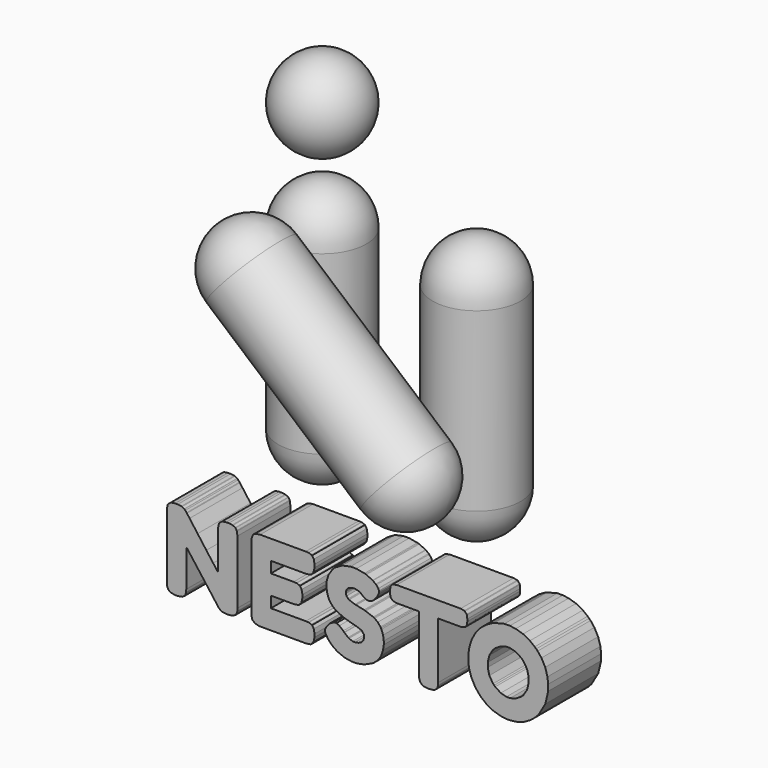
from build123d import *

# Parameters (mm, degrees)
F8_DEPTH = 0.5
F9_SCALE = 24


with BuildPart() as f1:
    # F0 (on Front) → F1 (revolve)
    with BuildSketch(Plane.XZ):
        with BuildLine():
            Line((0, 32), (0, 0))
            ThreePointArc((0, 0), (2.3431457505, -5.6568542495), (8, -8))
            Line((8, -8), (8, 40))
            ThreePointArc((8, 40), (2.3431457505, 37.6568542495), (0, 32))
        make_face()
    revolve(axis=Axis((8, 0, 16), (0, 0, -1)))


with BuildPart() as f2:
    # F0 (on Front) → F2 (revolve)
    with BuildSketch(Plane.XZ):
        with BuildLine():
            Line((28, 32), (28, 0))
            ThreePointArc((28, 0), (30.3431457505, -5.6568542495), (36, -8))
            Line((36, -8), (36, 40))
            ThreePointArc((36, 40), (30.3431457505, 37.6568542495), (28, 32))
        make_face()
    revolve(axis=Axis((36, 0, 16), (0, 0, -1)))


with BuildPart() as f3:
    # F0 (on Front) → F3 (revolve)
    with BuildSketch(Plane.XZ):
        with BuildLine():
            Line((8, 44), (8, 60))
            ThreePointArc((8, 60), (0, 52), (8, 44))
        make_face()
    revolve(axis=Axis((8, 0, 52), (0, 0, -1)))


with BuildPart() as f5:
    # F4 (on Front) → F5 (revolve)
    with BuildSketch(Plane.XZ):
        with BuildLine():
            ThreePointArc((13.2063309876, 38.0740528189), (7.3864280089, 39.976435884), (1.9259471811, 37.2063309876))
            Line((1.9259471811, 37.2063309876), (42.0740528189, 2.7936690124))
            ThreePointArc((42.0740528189, 2.7936690124), (43.976435884, 8.6135719911), (41.2063309876, 14.0740528189))
            Line((41.2063309876, 14.0740528189), (13.2063309876, 38.0740528189))
        make_face()
    revolve(axis=Axis((22, 0, 20), (0.7592566024, 0, -0.6507913735)))


with BuildPart() as f5_1:
    # F6: moved
    add(f5.part.moved(Location((0, -16, 0))))


with BuildPart() as f8:
    # F7 (on Front) → F8 (new body)
    with BuildSketch(Plane.XZ):
        Polygon((-1.04506, 0.282475), (-1.04635, 0.280025), (-1.04771, 0.277595), (-1.05428, 0.245355), (-1.05428, 0.233745), (-1.05428, -0.047935), (-1.06362, -0.035835), (-1.09117, 0.000565), (-1.14266, 0.069415), (-1.20869, 0.158495), (-1.26917, 0.240585), (-1.28925, 0.267925), (-1.29191, 0.271135), (-1.30206, 0.282905), (-1.30791, 0.289195), (-1.30845, 0.289585), (-1.30944, 0.290555), (-1.32646, 0.299235), (-1.32885, 0.299995), (-1.3313, 0.300765), (-1.35859, 0.304605), (-1.36846, 0.304605), (-1.37806, 0.304605), (-1.40671, 0.300425), (-1.40931, 0.299565), (-1.41198, 0.298745), (-1.43171, 0.282475), (-1.43302, 0.280025), (-1.43438, 0.277595), (-1.44095, 0.245355), (-1.44095, 0.233745), (-1.44095, -0.231255), (-1.44095, -0.238085), (-1.43991, -0.258715), (-1.4397, -0.260395), (-1.43953, -0.262015), (-1.43291, -0.280795), (-1.43177, -0.282905), (-1.42988, -0.286645), (-1.41013, -0.299775), (-1.37888, -0.305415), (-1.36846, -0.305415), (-1.35777, -0.305415), (-1.32555, -0.299775), (-1.30542, -0.286645), (-1.30346, -0.282905), (-1.30238, -0.280795), (-1.29576, -0.262775), (-1.29555, -0.261255), (-1.29538, -0.259685), (-1.2943, -0.239335), (-1.2943, -0.232075), (-1.2943, 0.042085), (-1.28485, 0.029875), (-1.2567, -0.007085), (-1.20305, -0.077875), (-1.13338, -0.170375), (-1.06903, -0.255985), (-1.0476, -0.284585), (-1.04625, -0.286375), (-1.02889, -0.299555), (-1.02677, -0.300435), (-1.02471, -0.301235), (-0.99307, -0.305415), (-0.9818, -0.305415), (-0.9711, -0.305415), (-0.93888, -0.299775), (-0.91875, -0.286645), (-0.9168, -0.282905), (-0.91571, -0.280795), (-0.9091, -0.262775), (-0.90888, -0.261255), (-0.90871, -0.259685), (-0.90763, -0.239335), (-0.90763, -0.232075), (-0.90763, 0.230445), (-0.90763, 0.240535), (-0.91181, 0.270695), (-0.91262, 0.272925), (-0.91321, 0.274875), (-0.92189, 0.289475), (-0.92303, 0.290445), (-0.92423, 0.291425), (-0.9423, 0.299725), (-0.94474, 0.300425), (-0.94719, 0.301135), (-0.97349, 0.304605), (-0.98305, 0.304605), (-0.99232, 0.304605), (-1.02005, 0.300425), (-1.02264, 0.299565), (-1.02531, 0.298745), align=None)
    extrude(amount=F8_DEPTH)


with BuildPart() as f8b:
    # F7 (on Front) → F8, piece 2 (new body)
    with BuildSketch(Plane.XZ):
        Polygon((-0.39846, -0.157905), (-0.65513, -0.157905), (-0.65513, -0.073755), (-0.49178, -0.073755), (-0.48157, -0.073755), (-0.45081, -0.069585), (-0.44844, -0.068765), (-0.44317, -0.067085), (-0.42473, -0.046625), (-0.4168, -0.011965), (-0.4168, -0.000405), (-0.4168, 0.010335), (-0.42244, 0.042515), (-0.43557, 0.062635), (-0.43931, 0.064595), (-0.44144, 0.065735), (-0.45982, 0.072345), (-0.46139, 0.072515), (-0.46302, 0.072735), (-0.48294, 0.073765), (-0.4901, 0.073765), (-0.65513, 0.073765), (-0.65513, 0.157905), (-0.39928, 0.157905), (-0.38907, 0.157905), (-0.35837, 0.162085), (-0.35598, 0.162905), (-0.35088, 0.164585), (-0.33287, 0.185025), (-0.32512, 0.219705), (-0.32512, 0.231265), (-0.32512, 0.241995), (-0.33075, 0.274165), (-0.34388, 0.294355), (-0.34763, 0.296245), (-0.34974, 0.297385), (-0.36813, 0.304015), (-0.36971, 0.304175), (-0.37134, 0.304385), (-0.3913, 0.305415), (-0.39846, 0.305415), (-0.72681, 0.305415), (-0.73609, 0.305415), (-0.76391, 0.301565), (-0.7842, 0.292625), (-0.78681, 0.290015), (-0.78946, 0.287455), (-0.79869, 0.267815), (-0.8026, 0.241025), (-0.8026, 0.232065), (-0.8026, -0.231255), (-0.8026, -0.241295), (-0.79853, -0.271515), (-0.79766, -0.273735), (-0.79598, -0.279005), (-0.77557, -0.297445), (-0.74091, -0.305415), (-0.7293, -0.305415), (-0.39928, -0.305415), (-0.38907, -0.305415), (-0.35837, -0.301235), (-0.35598, -0.300435), (-0.35088, -0.298755), (-0.33287, -0.278295), (-0.32512, -0.243625), (-0.32512, -0.232075), (-0.32512, -0.221325), (-0.33075, -0.189155), (-0.34388, -0.169025), (-0.34763, -0.167075), (-0.34974, -0.165935), (-0.36813, -0.159365), (-0.36971, -0.159155), (-0.37134, -0.158935), (-0.3913, -0.157905), align=None)
    extrude(amount=F8_DEPTH)


with BuildPart() as f8c:
    # F7 (on Front) → F8, piece 3 (new body)
    with BuildSketch(Plane.XZ):
        Polygon((-0.22795, -0.215145), (-0.22431, -0.219585), (-0.21682, -0.228755), (-0.21389, -0.232875), (-0.19269, -0.254155), (-0.16252, -0.275965), (-0.15513, -0.280405), (-0.15156, -0.282735), (-0.1043, -0.302545), (-0.09844, -0.304165), (-0.09263, -0.305735), (-0.04288, -0.313725), (-0.02432, -0.313725), (-0.00577, -0.313725), (0.05, -0.302655), (0.10854, -0.276875), (0.11981, -0.269555), (0.12562, -0.265805), (0.15151, -0.242375), (0.17288, -0.212645), (0.17652, -0.205805), (0.18009, -0.198915), (0.19273, -0.161325), (0.19822, -0.123125), (0.19822, -0.110435), (0.19822, -0.097905), (0.19284, -0.060465), (0.18048, -0.025305), (0.17695, -0.019185), (0.17337, -0.012985), (0.15308, 0.012405), (0.12926, 0.030415), (0.124, 0.032905), (0.11868, 0.035455), (0.06112, 0.056605), (0.05488, 0.058345), (0.04859, 0.060085), (-0.00903, 0.072945), (-0.0143, 0.073765), (-0.01962, 0.074625), (-0.06366, 0.090585), (-0.06719, 0.092915), (-0.07077, 0.095305), (-0.0832, 0.109285), (-0.08852, 0.124855), (-0.08852, 0.130025), (-0.08852, 0.135125), (-0.08406, 0.150415), (-0.07359, 0.163705), (-0.07056, 0.165835), (-0.06757, 0.167995), (-0.03681, 0.178735), (-0.02552, 0.178735), (-0.01516, 0.178735), (0.01609, 0.169785), (0.01902, 0.167945), (0.02, 0.167235), (0.03073, 0.158235), (0.03193, 0.157095), (0.03306, 0.156015), (0.04111, 0.149065), (0.04154, 0.148735), (0.04581, 0.145975), (0.07404, 0.132085), (0.08488, 0.132085), (0.09226, 0.132085), (0.11445, 0.142495), (0.13848, 0.166805), (0.1432, 0.173745), (0.14651, 0.178635), (0.15818, 0.199785), (0.16318, 0.214655), (0.16318, 0.219595), (0.16318, 0.224265), (0.15666, 0.238155), (0.14163, 0.256425), (0.13734, 0.260445), (0.11651, 0.276235), (0.11386, 0.278455), (0.06627, 0.300375), (0.05944, 0.302495), (0.05255, 0.304665), (-0.00903, 0.315405), (-0.03181, 0.315405), (-0.05292, 0.315405), (-0.11613, 0.301785), (-0.17152, 0.269945), (-0.18057, 0.260835), (-0.1897, 0.251765), (-0.22155, 0.201585), (-0.2351, 0.150095), (-0.2351, 0.132905), (-0.2351, 0.120585), (-0.22984, 0.083475), (-0.21748, 0.048035), (-0.21389, 0.041695), (-0.21037, 0.035405), (-0.19007, 0.008875), (-0.16626, -0.010825), (-0.16094, -0.013755), (-0.15567, -0.016625), (-0.09877, -0.042015), (-0.09263, -0.044185), (-0.08656, -0.046305), (-0.02964, -0.061935), (-0.02432, -0.062905), (-0.01907, -0.063875), (0.02504, -0.079505), (0.02862, -0.081685), (0.03215, -0.083795), (0.04983, -0.105715), (0.04983, -0.113735), (0.04983, -0.120625), (0.04495, -0.141405), (0.03047, -0.161215), (0.00627, -0.173095), (-0.01917, -0.177055), (-0.02764, -0.177055), (-0.03675, -0.177055), (-0.0641, -0.166255), (-0.06769, -0.164145), (-0.07131, -0.161975), (-0.09903, -0.139405), (-0.10094, -0.137075), (-0.10794, -0.130125), (-0.1381, -0.105825), (-0.15905, -0.095405), (-0.16599, -0.095405), (-0.17619, -0.095405), (-0.20667, -0.112055), (-0.21014, -0.115415), (-0.21612, -0.121225), (-0.23706, -0.146945), (-0.24601, -0.165505), (-0.24601, -0.171685), (-0.24601, -0.182535), align=None)
    extrude(amount=F8_DEPTH)


with BuildPart() as f8d:
    # F7 (on Front) → F8, piece 4 (new body)
    with BuildSketch(Plane.XZ):
        Polygon((0.76956, 0.306235), (0.30623, 0.306235), (0.2962, 0.306235), (0.26625, 0.299995), (0.26376, 0.298745), (0.26208, 0.297925), (0.25025, 0.283015), (0.24959, 0.280845), (0.24888, 0.278735), (0.24541, 0.254915), (0.24541, 0.246235), (0.24541, 0.238035), (0.24888, 0.213455), (0.24959, 0.211235), (0.25025, 0.209015), (0.26413, 0.192735), (0.26625, 0.191655), (0.26831, 0.190625), (0.29561, 0.185415), (0.30543, 0.185415), (0.46541, 0.185415), (0.46541, -0.232935), (0.46541, -0.239665), (0.46645, -0.260005), (0.46666, -0.261645), (0.46683, -0.263215), (0.47306, -0.281335), (0.47415, -0.283335), (0.47518, -0.285345), (0.49319, -0.299555), (0.4958, -0.300435), (0.49834, -0.301235), (0.52672, -0.305415), (0.53708, -0.305415), (0.5468, -0.305415), (0.57609, -0.301235), (0.57875, -0.300435), (0.58136, -0.299555), (0.59975, -0.285345), (0.60083, -0.283335), (0.60187, -0.281335), (0.60811, -0.263585), (0.60831, -0.262075), (0.60854, -0.260555), (0.60956, -0.240805), (0.60956, -0.233755), (0.60956, 0.185415), (0.76875, 0.185415), (0.77873, 0.185415), (0.80873, 0.191655), (0.81123, 0.192905), (0.81286, 0.193765), (0.82473, 0.208745), (0.82544, 0.210855), (0.82609, 0.213025), (0.82956, 0.236785), (0.82956, 0.245415), (0.82956, 0.253605), (0.82609, 0.278195), (0.82544, 0.280415), (0.82473, 0.282635), (0.81079, 0.298965), (0.80873, 0.299995), (0.80662, 0.301085), (0.77933, 0.306235), align=None)
    extrude(amount=F8_DEPTH)


with BuildPart() as f8e:
    # F7 (on Front) → F8, piece 5 (new body)
    with BuildSketch(Plane.XZ):
        Polygon((1.15086, 0.312915), (1.13599, 0.312915), (1.11027, 0.312915), (1.03329, 0.293485), (1.02429, 0.289585), (1.01522, 0.285725), (0.97323, 0.261915), (0.93541, 0.232235), (0.92847, 0.225405), (0.92152, 0.218605), (0.89093, 0.179715), (0.86591, 0.134245), (0.86179, 0.124165), (0.85762, 0.114125), (0.84302, 0.061605), (0.83679, 0.011375), (0.83679, -0.005395), (0.83679, -0.020645), (0.84231, -0.066545), (0.85897, -0.123295), (0.88669, -0.175695), (0.91486, -0.212695), (0.92554, -0.223765), (0.93618, -0.234725), (0.97225, -0.263805), (1.02374, -0.292445), (1.07994, -0.309655), (1.12568, -0.315405), (1.14093, -0.315405), (1.15612, -0.315405), (1.20175, -0.309545), (1.25762, -0.292125), (1.30847, -0.263095), (1.34388, -0.233645), (1.3543, -0.222515), (1.36873, -0.207005), (1.41925, -0.119765), (1.44095, -0.028015), (1.44095, 0.002525), (1.44095, 0.018355), (1.43524, 0.065885), (1.41822, 0.123885), (1.38984, 0.176515), (1.36109, 0.213025), (1.35013, 0.223775), (1.33916, 0.234515), (1.30266, 0.262775), (1.25118, 0.290665), (1.19556, 0.307375), align=None)
        Polygon((0.9843, -0.017985), (0.9843, -0.001225), (0.9843, 0.015595), (0.99618, 0.065995), (1.0239, 0.111465), (1.03183, 0.119165), (1.03969, 0.126875), (1.08218, 0.153885), (1.12438, 0.165445), (1.13848, 0.165445), (1.15254, 0.165445), (1.19475, 0.153995), (1.2375, 0.127245), (1.24552, 0.119605), (1.2535, 0.111955), (1.28144, 0.066275), (1.29348, 0.014995), (1.29348, -0.002085), (1.29348, -0.019075), (1.28155, -0.070185), (1.25383, -0.115365), (1.24597, -0.122905), (1.23804, -0.130395), (1.19551, -0.156595), (1.1533, -0.167895), (1.13925, -0.167895), (1.12513, -0.167895), (1.08287, -0.156335), (1.04018, -0.129365), (1.0322, -0.121665), (1.02418, -0.113965), (0.99623, -0.068445), align=None, mode=Mode.SUBTRACT)
    extrude(amount=F8_DEPTH)


with BuildPart() as f8_1:
    # F9: moved
    add(f8.part.scale(F9_SCALE))


with BuildPart() as f8b_1:
    # F9: moved
    add(f8b.part.scale(F9_SCALE))


with BuildPart() as f8c_1:
    # F9: moved
    add(f8c.part.scale(F9_SCALE))


with BuildPart() as f8d_1:
    # F9: moved
    add(f8d.part.scale(F9_SCALE))


with BuildPart() as f8e_1:
    # F9: moved
    add(f8e.part.scale(F9_SCALE))


with BuildPart() as f8_2:
    # F10: moved
    add(f8_1.part.moved(Location((24, 0, -20))))


with BuildPart() as f8b_2:
    # F10: moved
    add(f8b_1.part.moved(Location((24, 0, -20))))


with BuildPart() as f8c_2:
    # F10: moved
    add(f8c_1.part.moved(Location((24, 0, -20))))


with BuildPart() as f8d_2:
    # F10: moved
    add(f8d_1.part.moved(Location((24, 0, -20))))


with BuildPart() as f8e_2:
    # F10: moved
    add(f8e_1.part.moved(Location((24, 0, -20))))


solid = Compound([f1.part, f2.part, f3.part, f5_1.part, f8_2.part, f8b_2.part, f8c_2.part, f8d_2.part, f8e_2.part])
